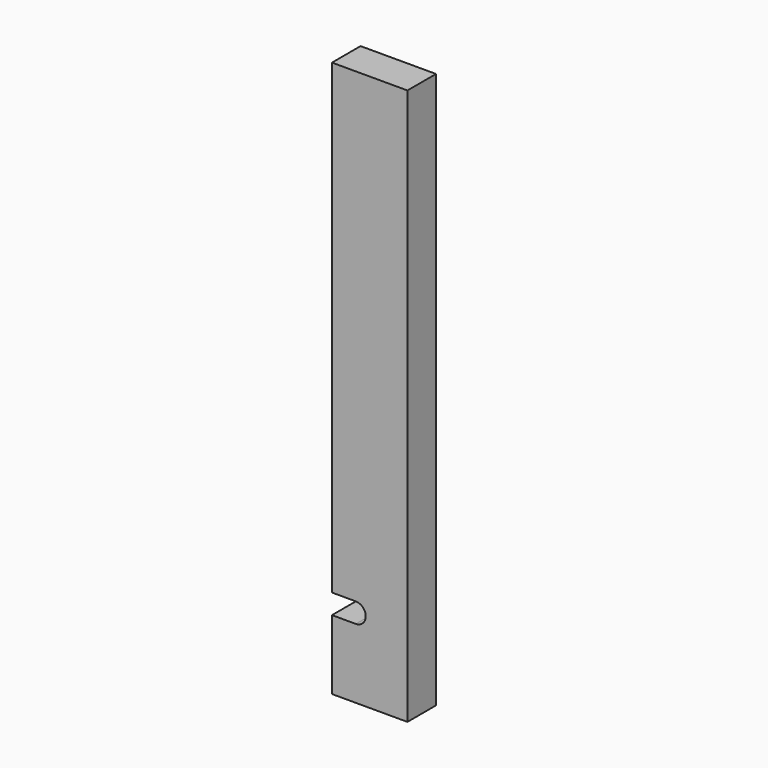
from build123d import *

# Parameters (mm, degrees)
F1_DEPTH = 45


with BuildPart() as f1:
    # F0 (on Front) → F1 (new body)
    with BuildSketch(Plane.XZ):
        with BuildLine():
            Line((47.5, 350), (-47.5, 350))
            Line((-47.5, 350), (-47.5, -237.5))
            Line((-47.5, -237.5), (-17.5, -237.5))
            ThreePointArc((-17.5, -237.5), (-5, -250), (-17.5, -262.5))
            Line((-17.5, -262.5), (-47.5, -262.5))
            Line((-47.5, -262.5), (-47.5, -350))
            Line((-47.5, -350), (47.5, -350))
            Line((47.5, -350), (47.5, 350))
        make_face()
    extrude(amount=F1_DEPTH)


solid = f1.part
